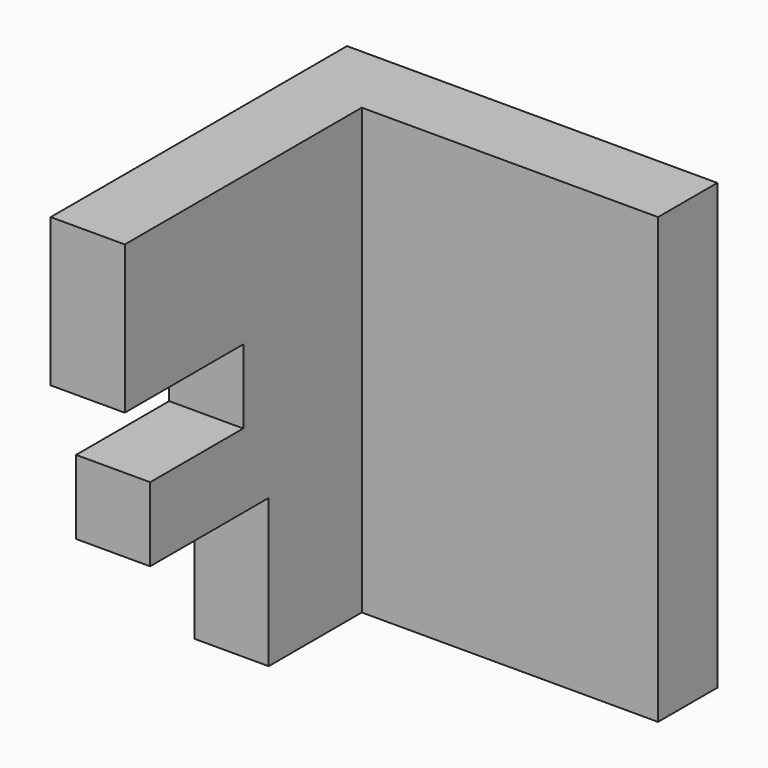
from build123d import *

# Parameters (mm, degrees)
F0_W     = 63.5
F0_H     = 76.2
F1_DEPTH = 12.7
F2_W     = 12.7
F2_H     = 76.2
F3_DEPTH = 50.8
F4_W     = 5.442066
F4_H     = 25.4
F4_H_2   = 12.7
F5_DEPTH = 12.7
F6_W     = 25.4
F6_H     = 25.4
F7_DEPTH = 12.7


with BuildPart() as f1:
    # F0 (on Front) → F1 (new body)
    with BuildSketch(Plane.XZ):
        with Locations((-0.396088, 4.24908)):
            Rectangle(F0_W, F0_H)
    extrude(amount=F1_DEPTH)

    # F2 (on face) → F3 (join)
    with BuildSketch(Plane.XZ.offset(12.7)):
        with Locations((-25.796088, 4.24908)):
            Rectangle(F2_W, F2_H)
    extrude(amount=F3_DEPTH)

    # F4 (on face) → F5 (cut)
    with BuildSketch(Plane.YZ.offset(-19.446088)):
        Polygon((-38.1, 16.94908), (-63.5, 16.94908), (-63.5, 4.24908), (-58.057934, 4.24908), (-38.1, 4.24908), align=None)
        with Locations((-60.778967, -8.45092)):
            Rectangle(F4_W, F4_H)
        with Locations((-60.778967, -27.50092)):
            Rectangle(F4_W, F4_H_2)
    extrude(amount=-F5_DEPTH, mode=Mode.SUBTRACT)

    # F6 (on face) → F7 (cut)
    with BuildSketch(Plane.YZ.offset(-19.446088)):
        with Locations((-45.357934, -21.15092)):
            Rectangle(F6_W, F6_H)
    extrude(amount=-F7_DEPTH, mode=Mode.SUBTRACT)


solid = f1.part
